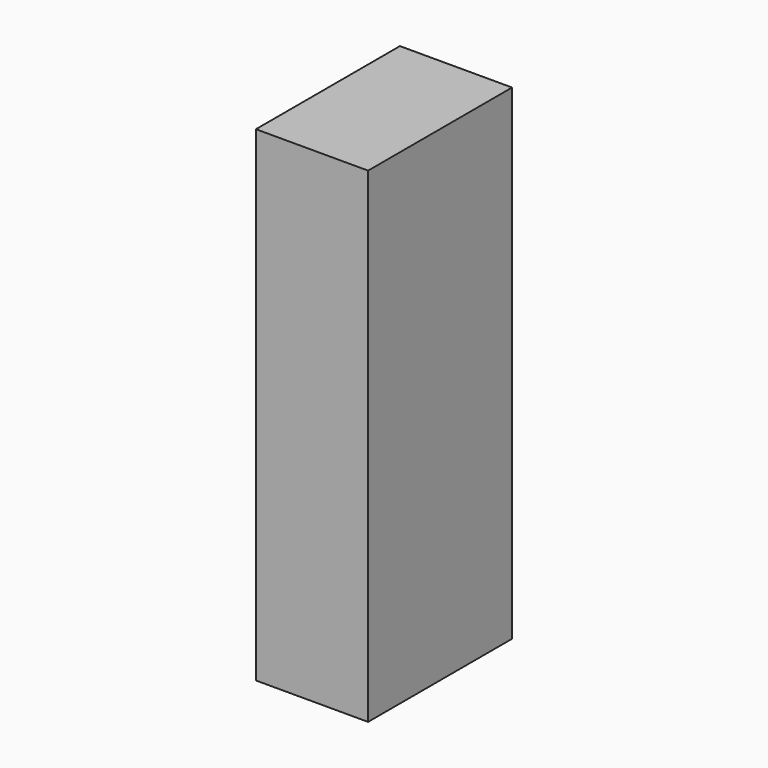
from build123d import *

# Parameters (mm, degrees)
F0_W     = 15.829317
F0_H     = 68.497769
F1_DEPTH = 25.4
F2_R     = 6.633596
F3_DEPTH = 76.2


with BuildPart() as f1:
    # F0 (on Front) → F1 (new body)
    with BuildSketch(Plane.XZ):
        with Locations((0.287805, -20.002499)):
            Rectangle(F0_W, F0_H)
    extrude(amount=F1_DEPTH)

    # F2 (on Top) → F3 (cut)
    with BuildSketch(Plane.XY):
        with Locations((0, -12.231745)):
            Circle(F2_R)
    extrude(amount=-F3_DEPTH, mode=Mode.SUBTRACT)


solid = f1.part
